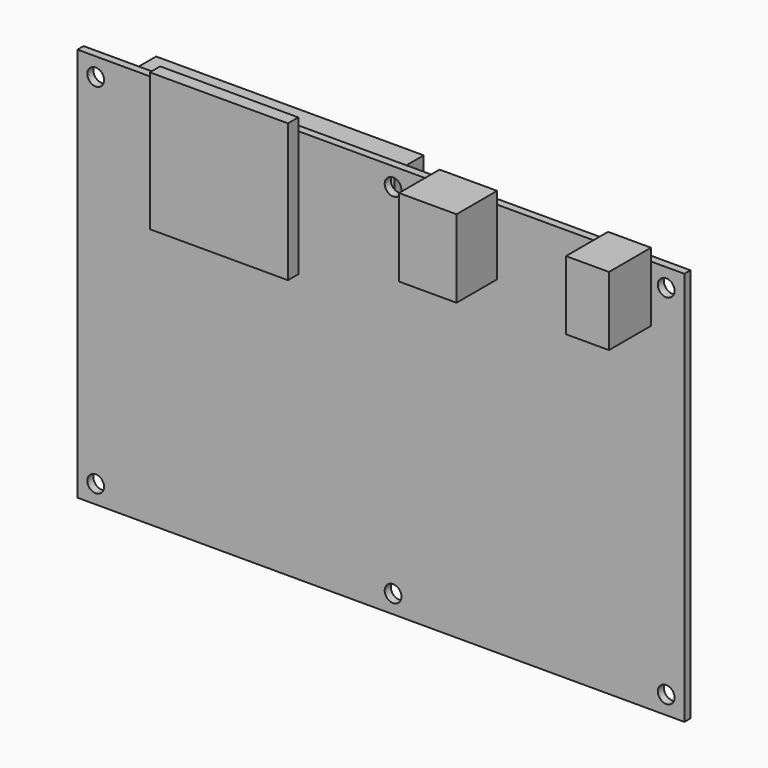
from build123d import *

# Parameters (mm, degrees)
F0_W      = 127
F0_H      = 82.55
F1_DEPTH  = 1.6002
F2_R      = 1.7526
F3_DEPTH  = 34.544
F5_W      = 8.9916
F5_H      = 11.8618
F5_H_2    = 2.54
F6_DEPTH  = 10.9982
F5_W_2    = 12.0396
F5_H_3    = 13.7668
F7_DEPTH  = 10.6172
F5_W_3    = 28.899866
F5_H_4    = 26.359866
F8_DEPTH  = 2.70002
F10_DEPTH = 7.3406
F11_R     = 4.4958
F12_DEPTH = 7.0104
F13_R     = 0.254
F14_W     = 1.524
F14_H     = 1.5494
F15_DEPTH = 0.52832
F17_START = 2.54
F16_W     = 55.9816
F16_H     = 71.9999999926
F16_R     = 1.27
F17_DEPTH = 7.5999999892
F18_START = 2.54
F18_DEPTH = 1.651
F20_DEPTH = 3.9878
F21_W     = 11.999976
F21_H     = 11.999976
F21_W_2   = 9.99998
F21_H_2   = 9.99998
F22_DEPTH = 3.999992
F23_DEPTH = 7.6962
F24_W     = 17.6999084651
F24_H     = 2.4523995817
F25_DEPTH = 2.794
F26_R     = 2.4605990051
F26_R_2   = 1.252826006
F27_DEPTH = 2.54


with BuildPart() as f1:
    # F0 (on Front) → F1 (new body)
    with BuildSketch(Plane.XZ):
        Rectangle(F0_W, F0_H)
    extrude(amount=F1_DEPTH)

    # F2 (on face) → F3 (cut)
    with BuildSketch(Plane.XZ.offset(1.6002)):
        with Locations((-59.69, 37.465)):
            Circle(F2_R)
        with Locations((2.54, 37.465)):
            Circle(F2_R)
        with Locations((59.69, 37.465)):
            Circle(F2_R)
        with Locations((59.69, -37.465)):
            Circle(F2_R)
        with Locations((2.54, -37.465)):
            Circle(F2_R)
        with Locations((-59.69, -37.465)):
            Circle(F2_R)
    extrude(amount=-F3_DEPTH, mode=Mode.SUBTRACT)

    # F5 (on face) → F6 (join)
    with BuildSketch(Plane.XZ.offset(1.6002)):
        with Locations((52.0192, 35.3441)):
            Rectangle(F5_W, F5_H)
        with Locations((52.0192, 42.545)):
            Rectangle(F5_W, F5_H_2)
    extrude(amount=F6_DEPTH)

    # F5 (on face) → F7 (join)
    with BuildSketch(Plane.XZ.offset(1.6002)):
        with Locations((18.288, 34.3916)):
            Rectangle(F5_W_2, F5_H_3)
        with Locations((18.288, 42.545)):
            Rectangle(F5_W_2, F5_H_2)
    extrude(amount=F7_DEPTH)

    # F5 (on face) → F8 (join)
    with BuildSketch(Plane.XZ.offset(1.6002)):
        with Locations((-31.749873, 28.095067)):
            Rectangle(F5_W_3, F5_H_4)
        with Locations((-31.749873, 42.545)):
            Rectangle(F5_W_3, F5_H_2)
    extrude(amount=F8_DEPTH)

    # F9 (on face) → F10 (join)
    with BuildSketch(Plane(origin=(0, 0, 0), x_dir=(-1, 0, 0), z_dir=(0, 1, 0))):
        with BuildLine():
            Line((-42.0935424638, -4.0132), (-46.8064575362, -4.0132))
            ThreePointArc((-46.8064575362, -4.0132), (-44.45, -15.5194), (-42.0935424638, -4.0132))
        make_face()
        with BuildLine():
            Line((-16.6935424638, -4.0132), (-21.4064575362, -4.0132))
            ThreePointArc((-21.4064575362, -4.0132), (-19.05, -15.5194), (-16.6935424638, -4.0132))
        make_face()
    extrude(amount=F10_DEPTH)

    # F11 (on face) → F12 (join)
    with BuildSketch(Plane(origin=(0, 7.3406, 0), x_dir=(-1, 0, 0), z_dir=(0, 1, 0))):
        with Locations((-44.45, -9.525)):
            Circle(F11_R)
        with Locations((-19.05, -9.525)):
            Circle(F11_R)
    extrude(amount=F12_DEPTH)

    # F13
    f13_edges = [f1.edges().sort_by_distance(p)[0] for p in [
        (48.9458, 14.351, -9.525),
        (23.5458, 14.351, -9.525),
    ]]
    fillet(f13_edges, radius=F13_R)

    # F14 (on face) → F15 (join)
    with BuildSketch(Plane(origin=(0, 0, 0), x_dir=(-1, 0, 0), z_dir=(0, 1, 0))):
        with Locations((-31.75, 9.5377)):
            Rectangle(F14_W, F14_H)
    extrude(amount=F15_DEPTH)



with BuildPart() as f17:
    # F16 (on face) → F17 (new body)
    with BuildSketch(Plane(origin=(0, 0, 0), x_dir=(-1, 0, 0), z_dir=(0, 1, 0)).offset(F17_START)):
        with Locations((28.43880012, 1.5349939963)):
            Rectangle(F16_W, F16_H)
        with Locations((2.94040052, -15.1649895074)):
            Circle(F16_R, mode=Mode.SUBTRACT)
        with Locations((53.94040012, -15.1649895074)):
            Circle(F16_R, mode=Mode.SUBTRACT)
        with Locations((2.93024052, 18.2349944926)):
            Circle(F16_R, mode=Mode.SUBTRACT)
        with Locations((53.93024012, 18.2349944926)):
            Circle(F16_R, mode=Mode.SUBTRACT)
    extrude(amount=F17_DEPTH)

    # F16 (on face) → F18 (join)
    with BuildSketch(Plane(origin=(0, 0, 0), x_dir=(-1, 0, 0), z_dir=(0, 1, 0)).offset(F18_START)):
        Polygon((56.42960012, -34.465006), (0.44800012, -34.465006), (17.94799052, -39.464996), (38.94794852, -39.464996), align=None)
    extrude(amount=F18_DEPTH)

    # F19 (on face) → F20 (cut)
    with BuildSketch(Plane(origin=(0, 10.1399999892, 0), x_dir=(-1, 0, 0), z_dir=(0, 1, 0))):
        with BuildLine():
            Line((56.42960012, 20.7368944926), (53.93024012, 20.7368944926))
            ThreePointArc((53.93024012, 20.7368944926), (51.42834012, 18.2349944926), (53.93024012, 15.7330944926))
            Line((53.93024012, 15.7330944926), (56.42960012, 15.7330944926))
            Line((56.42960012, 15.7330944926), (56.42960012, 18.1222860173))
            Line((56.42960012, 18.1222860173), (56.42960012, 18.3477029679))
            Line((56.42960012, 18.3477029679), (56.42960012, 20.7368944926))
        make_face()
        with BuildLine():
            ThreePointArc((56.42960012, 18.1222860173), (56.43214012, 18.2349944926), (56.42960012, 18.3477029679))
            Line((56.42960012, 18.3477029679), (56.42960012, 18.1222860173))
        make_face()
        with BuildLine():
            Line((56.42960012, -12.6630895074), (53.94040012, -12.6630895074))
            ThreePointArc((53.94040012, -12.6630895074), (51.43850012, -15.1649895074), (53.94040012, -17.6668895074))
            Line((53.94040012, -17.6668895074), (56.42960012, -17.6668895074))
            Line((56.42960012, -17.6668895074), (56.42960012, -15.4167571979))
            Line((56.42960012, -15.4167571979), (56.42960012, -14.9132218169))
            Line((56.42960012, -14.9132218169), (56.42960012, -12.6630895074))
        make_face()
        with BuildLine():
            ThreePointArc((56.42960012, -15.4167571979), (56.44230012, -15.1649895074), (56.42960012, -14.9132218169))
            Line((56.42960012, -14.9132218169), (56.42960012, -15.4167571979))
        make_face()
        with BuildLine():
            Line((0.44800012, -15.3828056135), (0.44800012, -14.9471734013))
            ThreePointArc((0.44800012, -14.9471734013), (0.43850052, -15.1649895074), (0.44800012, -15.3828056135))
        make_face()
        with BuildLine():
            Line((0.44800012, -12.6630895074), (0.44800012, -14.9471734013))
            Line((0.44800012, -14.9471734013), (0.44800012, -15.3828056135))
            Line((0.44800012, -15.3828056135), (0.44800012, -17.6668895074))
            Line((0.44800012, -17.6668895074), (2.94040052, -17.6668895074))
            ThreePointArc((2.94040052, -17.6668895074), (5.44230052, -15.1649895074), (2.94040052, -12.6630895074))
            Line((2.94040052, -12.6630895074), (0.44800012, -12.6630895074))
        make_face()
        with BuildLine():
            Line((0.44800012, 17.9219670072), (0.44800012, 18.548021978))
            ThreePointArc((0.44800012, 18.548021978), (0.42834052, 18.2349944926), (0.44800012, 17.9219670072))
        make_face()
        with BuildLine():
            Line((0.44800012, 20.7368944926), (0.44800012, 18.548021978))
            Line((0.44800012, 18.548021978), (0.44800012, 17.9219670072))
            Line((0.44800012, 17.9219670072), (0.44800012, 15.7330944926))
            Line((0.44800012, 15.7330944926), (2.93024052, 15.7330944926))
            ThreePointArc((2.93024052, 15.7330944926), (5.43214052, 18.2349944926), (2.93024052, 20.7368944926))
            Line((2.93024052, 20.7368944926), (0.44800012, 20.7368944926))
        make_face()
    extrude(amount=-F20_DEPTH, mode=Mode.SUBTRACT)

    # F21 (on face) → F22 (join)
    with BuildSketch(Plane(origin=(0, 10.1399999892, 0), x_dir=(-1, 0, 0), z_dir=(0, 1, 0))):
        with Locations((11.74795212, -23.5150180194)):
            Rectangle(F21_W, F21_H)
        with Locations((11.74795212, -23.5150180194)):
            Rectangle(F21_W_2, F21_H_2, mode=Mode.SUBTRACT)
        with Locations((11.74795212, -6.8150260194)):
            Rectangle(F21_W, F21_H)
        with Locations((11.74795212, -6.8150260194)):
            Rectangle(F21_W_2, F21_H_2, mode=Mode.SUBTRACT)
        with Locations((11.74795212, 9.8849659806)):
            Rectangle(F21_W, F21_H)
        with Locations((11.74795212, 9.8849659806)):
            Rectangle(F21_W_2, F21_H_2, mode=Mode.SUBTRACT)
        with Locations((11.74795212, 26.5849579806)):
            Rectangle(F21_W, F21_H)
        with Locations((11.74795212, 26.5849579806)):
            Rectangle(F21_W_2, F21_H_2, mode=Mode.SUBTRACT)
        with Locations((28.44794412, -23.5150180194)):
            Rectangle(F21_W, F21_H)
        with Locations((28.44794412, -23.5150180194)):
            Rectangle(F21_W_2, F21_H_2, mode=Mode.SUBTRACT)
        with Locations((28.44794412, -6.8150260194)):
            Rectangle(F21_W, F21_H)
        with Locations((28.44794412, -6.8150260194)):
            Rectangle(F21_W_2, F21_H_2, mode=Mode.SUBTRACT)
        with Locations((28.44794412, 9.8849659806)):
            Rectangle(F21_W, F21_H)
        with Locations((28.44794412, 9.8849659806)):
            Rectangle(F21_W_2, F21_H_2, mode=Mode.SUBTRACT)
        with Locations((28.44794412, 26.5849579806)):
            Rectangle(F21_W, F21_H)
        with Locations((28.44794412, 26.5849579806)):
            Rectangle(F21_W_2, F21_H_2, mode=Mode.SUBTRACT)
        with Locations((45.14793612, -23.5150180194)):
            Rectangle(F21_W, F21_H)
        with Locations((45.14793612, -23.5150180194)):
            Rectangle(F21_W_2, F21_H_2, mode=Mode.SUBTRACT)
        with Locations((45.14793612, -6.8150260194)):
            Rectangle(F21_W, F21_H)
        with Locations((45.14793612, -6.8150260194)):
            Rectangle(F21_W_2, F21_H_2, mode=Mode.SUBTRACT)
        with Locations((45.14793612, 9.8849659806)):
            Rectangle(F21_W, F21_H)
        with Locations((45.14793612, 9.8849659806)):
            Rectangle(F21_W_2, F21_H_2, mode=Mode.SUBTRACT)
        with Locations((45.14793612, 26.5849579806)):
            Rectangle(F21_W, F21_H)
        with Locations((45.14793612, 26.5849579806)):
            Rectangle(F21_W_2, F21_H_2, mode=Mode.SUBTRACT)
    extrude(amount=F22_DEPTH)

    # F21 (on face) → F23 (join)
    with BuildSketch(Plane(origin=(0, 10.1399999892, 0), x_dir=(-1, 0, 0), z_dir=(0, 1, 0))):
        with Locations((11.74795212, -23.5150180194)):
            Rectangle(F21_W_2, F21_H_2)
        with Locations((28.44794412, -23.5150180194)):
            Rectangle(F21_W_2, F21_H_2)
        with Locations((45.14793612, -23.5150180194)):
            Rectangle(F21_W_2, F21_H_2)
        with Locations((45.14793612, -6.8150260194)):
            Rectangle(F21_W_2, F21_H_2)
        with Locations((11.74795212, -6.8150260194)):
            Rectangle(F21_W_2, F21_H_2)
        with Locations((28.44794412, -6.8150260194)):
            Rectangle(F21_W_2, F21_H_2)
        with Locations((11.74795212, 9.8849659806)):
            Rectangle(F21_W_2, F21_H_2)
        with Locations((28.44794412, 9.8849659806)):
            Rectangle(F21_W_2, F21_H_2)
        with Locations((45.14793612, 9.8849659806)):
            Rectangle(F21_W_2, F21_H_2)
        with Locations((45.14793612, 26.5849579806)):
            Rectangle(F21_W_2, F21_H_2)
        with Locations((28.44794412, 26.5849579806)):
            Rectangle(F21_W_2, F21_H_2)
        with Locations((11.74795212, 26.5849579806)):
            Rectangle(F21_W_2, F21_H_2)
    extrude(amount=F23_DEPTH)


with BuildPart() as f1_1:
    add(f1.part)

    add(f17.part)  # F25 merges F17
    # F24 (on face) → F25 (join)
    with BuildSketch(Plane(origin=(0, 0, 0), x_dir=(-1, 0, 0), z_dir=(0, 1, 0))):
        with Locations((28.6942142993, -37.0875950903)):
            Rectangle(F24_W, F24_H)
    extrude(amount=F25_DEPTH)


with BuildPart() as f27:
    # F26 (on face) → F27 (new body)
    with BuildSketch(Plane(origin=(0, 0, 0), x_dir=(-1, 0, 0), z_dir=(0, 1, 0))):
        with Locations((2.93024052, 18.2349944926)):
            Circle(F26_R)
        with Locations((2.93024052, 18.2349944926)):
            Circle(F26_R_2, mode=Mode.SUBTRACT)
    extrude(amount=F27_DEPTH)


with BuildPart() as f27b:
    # F26 (on face) → F27, piece 2 (new body)
    with BuildSketch(Plane(origin=(0, 0, 0), x_dir=(-1, 0, 0), z_dir=(0, 1, 0))):
        with Locations((2.94040052, -15.1649895074)):
            Circle(F26_R)
        with Locations((2.94040052, -15.1649895074)):
            Circle(F26_R_2, mode=Mode.SUBTRACT)
    extrude(amount=F27_DEPTH)


with BuildPart() as f27c:
    # F26 (on face) → F27, piece 3 (new body)
    with BuildSketch(Plane(origin=(0, 0, 0), x_dir=(-1, 0, 0), z_dir=(0, 1, 0))):
        with Locations((53.93024012, 18.2349944926)):
            Circle(F26_R)
        with Locations((53.93024012, 18.2349944926)):
            Circle(F26_R_2, mode=Mode.SUBTRACT)
    extrude(amount=F27_DEPTH)


with BuildPart() as f27d:
    # F26 (on face) → F27, piece 4 (new body)
    with BuildSketch(Plane(origin=(0, 0, 0), x_dir=(-1, 0, 0), z_dir=(0, 1, 0))):
        with Locations((53.94040012, -15.1649895074)):
            Circle(F26_R)
        with Locations((53.94040012, -15.1649895074)):
            Circle(F26_R_2, mode=Mode.SUBTRACT)
    extrude(amount=F27_DEPTH)


solid = Compound([f1_1.part, f27.part, f27b.part, f27c.part, f27d.part])
